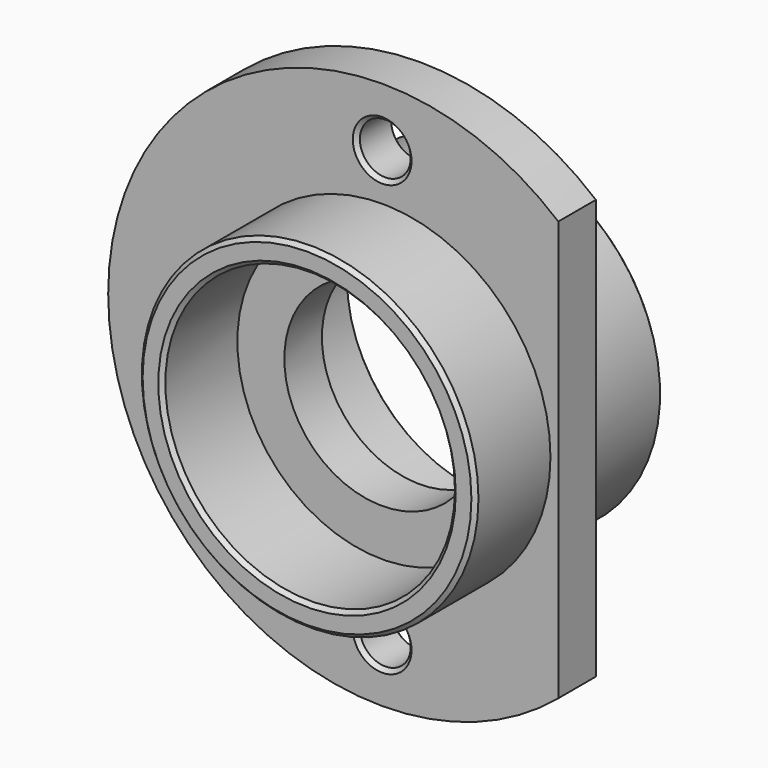
from build123d import *

# Parameters (mm, degrees)
F0_R     = 3.25
F0_R_2   = 12.5
F1_DEPTH = 6
F2_R     = 21.5
F2_R_2   = 18.5
F3_DEPTH = 12
F4_R     = 21.5
F4_R_2   = 18.5
F5_DEPTH = 12
F6_SIZE  = 0.5


with BuildPart() as f1:
    # F0 (on Front) → F1 (new body)
    with BuildSketch(Plane.XZ):
        with BuildLine():
            Line((22.5, -26.809513), (22.5, 26.809513))
            ThreePointArc((22.5, 26.809513), (-14.790199, 31.721444), (-35, 0))
            ThreePointArc((-35, 0), (-14.790199, -31.721444), (22.5, -26.809513))
        make_face()
        with Locations((0, -27.5)):
            Circle(F0_R, mode=Mode.SUBTRACT)
        Circle(F0_R_2, mode=Mode.SUBTRACT)
        with Locations((0, 27.5)):
            Circle(F0_R, mode=Mode.SUBTRACT)
    extrude(amount=F1_DEPTH)

    # F2 (on face) → F3 (join)
    with BuildSketch(Plane.XZ.offset(6)):
        Circle(F2_R)
        Circle(F2_R_2, mode=Mode.SUBTRACT)
    extrude(amount=F3_DEPTH)

    # F4 (on face) → F5 (join)
    with BuildSketch(Plane(origin=(0, 0, 0), x_dir=(-1, 0, 0), z_dir=(0, 1, 0))):
        Circle(F4_R)
        Circle(F4_R_2, mode=Mode.SUBTRACT)
    extrude(amount=F5_DEPTH)

    # F6
    f6_edges = [f1.edges().sort_by_distance(p)[0] for p in [
        (-3.25, -6, 27.5),
        (-3.25, 0, 27.5),
        (-3.25, -6, -27.5),
        (-3.25, 0, -27.5),
        (18.5, 12, 0),
        (21.5, 12, 0),
        (-21.5, -18, 0),
        (-18.5, -18, 0),
    ]]
    chamfer(f6_edges, length=F6_SIZE)


solid = f1.part
